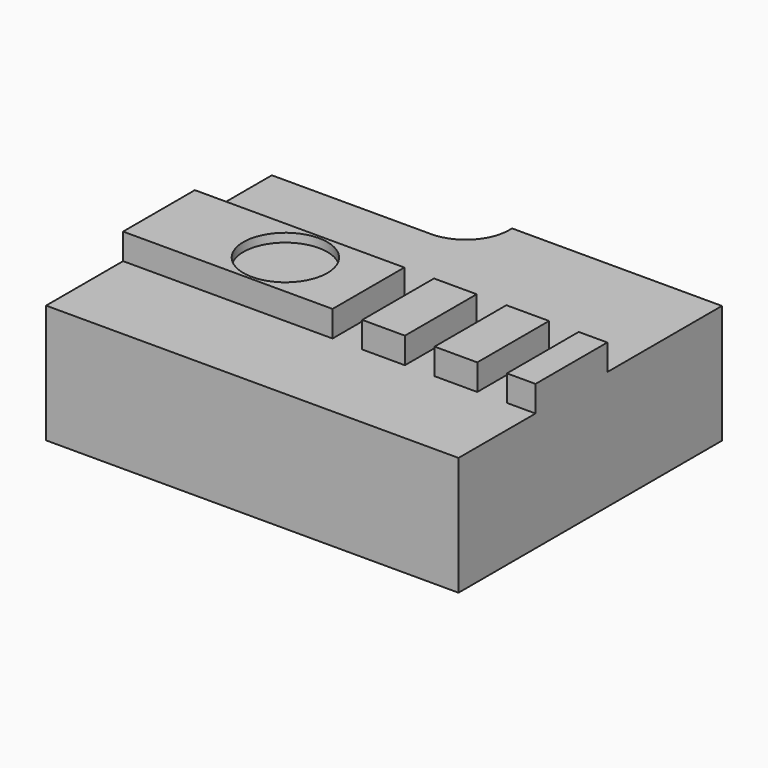
from build123d import *

# Parameters (mm, degrees)
PAD004_DEPTH    = 8.2
SKETCH014_W     = 28.5
SKETCH014_H     = 6.2
PAD005_DEPTH    = 1.8
SKETCH015_R     = 2.9
POCKET004_DEPTH = 0.6
SKETCH016_W     = 2.05
SKETCH016_H     = 6.2
POCKET005_DEPTH = 1.8


with BuildPart() as part:
    # Sketch013 → Pad004 (new body)
    with BuildSketch(Plane.XY):
        with BuildLine():
            Line((0, 0), (28.5, 0))
            Line((28.5, 0), (28.5, 22.75))
            Line((28.5, 22.75), (14, 22.75))
            Line((14, 22.75), (14, 22.5))
            ThreePointArc((11, 19.5), (13.12132, 20.37868), (14, 22.5))
            Line((11, 19.5), (0, 19.5))
            Line((0, 19.5), (0, 0))
        make_face()
    extrude(amount=PAD004_DEPTH)

    # Sketch014 (on Face9 of Pad004) → Pad005 (join)
    with BuildSketch(Plane.XY.offset(8.2)):
        with Locations((14.25, 9.75)):
            Rectangle(SKETCH014_W, SKETCH014_H)
    extrude(amount=PAD005_DEPTH)

    # Sketch015 (on Face11 of Pad005) → Pocket004 (cut)
    with BuildSketch(Plane.XY.offset(10)):
        with Locations((8.735056, 9.75)):
            Circle(SKETCH015_R)
    extrude(amount=-POCKET004_DEPTH, mode=Mode.SUBTRACT)

    # Sketch016 (on Face10 of Pocket004) → Pocket005 (cut)
    with BuildSketch(Plane.XY.offset(10)):
        with Locations((15.5, 9.75)):
            Rectangle(SKETCH016_W, SKETCH016_H)
        Polygon((21.525, 12.85), (21.525, 6.65), (19.475, 6.65), (19.475, 12.85), (20.5, 12.85), align=None)
        with Locations((25.5, 9.75)):
            Rectangle(SKETCH016_W, SKETCH016_H)
    extrude(amount=-POCKET005_DEPTH, mode=Mode.SUBTRACT)


solid = part.part
